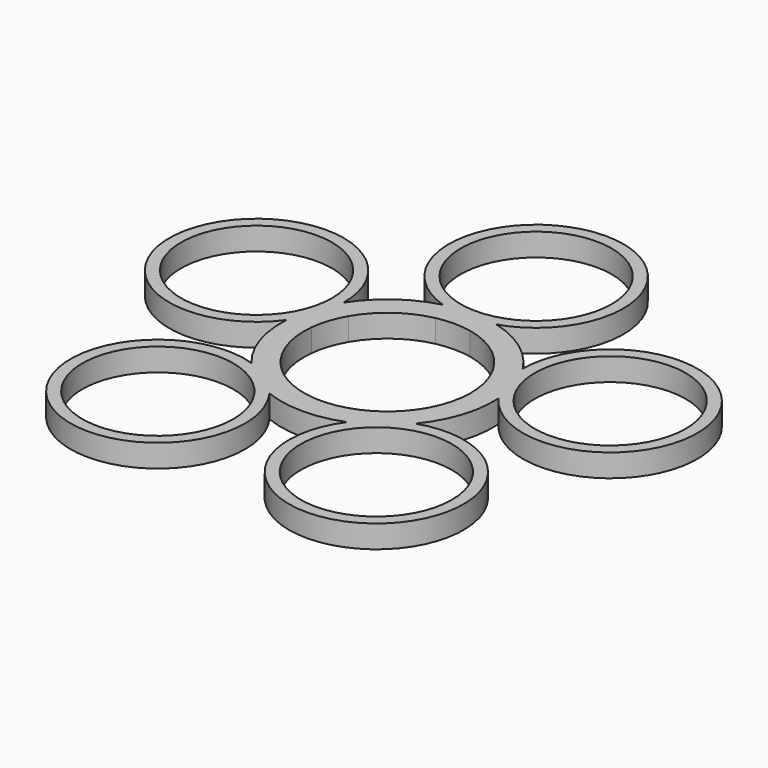
from build123d import *

# Parameters (mm, degrees)
F0_R     = 9.95
F1_DEPTH = 3


with BuildPart() as f1:
    # F0 (on Top) → F1 (new body)
    with BuildSketch(Plane.XY):
        with BuildLine():
            ThreePointArc((3.517079, 13.55102), (0, 36), (-3.517079, 13.55102))
            ThreePointArc((-3.517079, 13.55102), (-8.228994, 11.326238), (-11.800949, 7.532437))
            ThreePointArc((-11.800949, 7.532437), (-34.238035, 11.124612), (-13.974623, 0.842555))
            ThreePointArc((-13.974623, 0.842555), (-13.314791, -4.326238), (-10.810467, -8.895719))
            ThreePointArc((-10.810467, -8.895719), (-21.160269, -29.124612), (-5.119713, -13.030293))
            ThreePointArc((-5.119713, -13.030293), (0, -14), (5.119713, -13.030293))
            ThreePointArc((5.119713, -13.030293), (21.160269, -29.124612), (10.810467, -8.895719))
            ThreePointArc((10.810467, -8.895719), (13.314791, -4.326238), (13.974623, 0.842555))
            ThreePointArc((13.974623, 0.842555), (34.238035, 11.124612), (11.800949, 7.532437))
            ThreePointArc((11.800949, 7.532437), (8.228994, 11.326238), (3.517079, 13.55102))
        make_face()
        with Locations((-14.400739, -19.820916)):
            Circle(F0_R, mode=Mode.SUBTRACT)
        with BuildLine():
            ThreePointArc((2.287029, 10.759624), (6.465638, 8.899187), (9.526279, 5.5))
            ThreePointArc((9.526279, 5.5), (10.461622, 3.399187), (10.939741, 1.149813))
            ThreePointArc((10.939741, 1.149813), (10.461622, -3.399187), (8.174593, -7.360437))
            ThreePointArc((8.174593, -7.360437), (6.465638, -8.899187), (4.474103, -10.049))
            ThreePointArc((4.474103, -10.049), (0, -11), (-4.474103, -10.049))
            ThreePointArc((-4.474103, -10.049), (-6.465638, -8.899187), (-8.174593, -7.360437))
            ThreePointArc((-8.174593, -7.360437), (-10.461622, -3.399187), (-10.939741, 1.149813))
            ThreePointArc((-10.939741, 1.149813), (-10.461622, 3.399187), (-9.526279, 5.5))
            ThreePointArc((-9.526279, 5.5), (-6.465638, 8.899187), (-2.287029, 10.759624))
            ThreePointArc((-2.287029, 10.759624), (0, 11), (2.287029, 10.759624))
        make_face(mode=Mode.SUBTRACT)
        with Locations((14.400739, -19.820916)):
            Circle(F0_R, mode=Mode.SUBTRACT)
        with Locations((-23.300885, 7.570916)):
            Circle(F0_R, mode=Mode.SUBTRACT)
        with Locations((0, 24.5)):
            Circle(F0_R, mode=Mode.SUBTRACT)
        with Locations((23.300885, 7.570916)):
            Circle(F0_R, mode=Mode.SUBTRACT)
    extrude(amount=F1_DEPTH)


solid = f1.part
